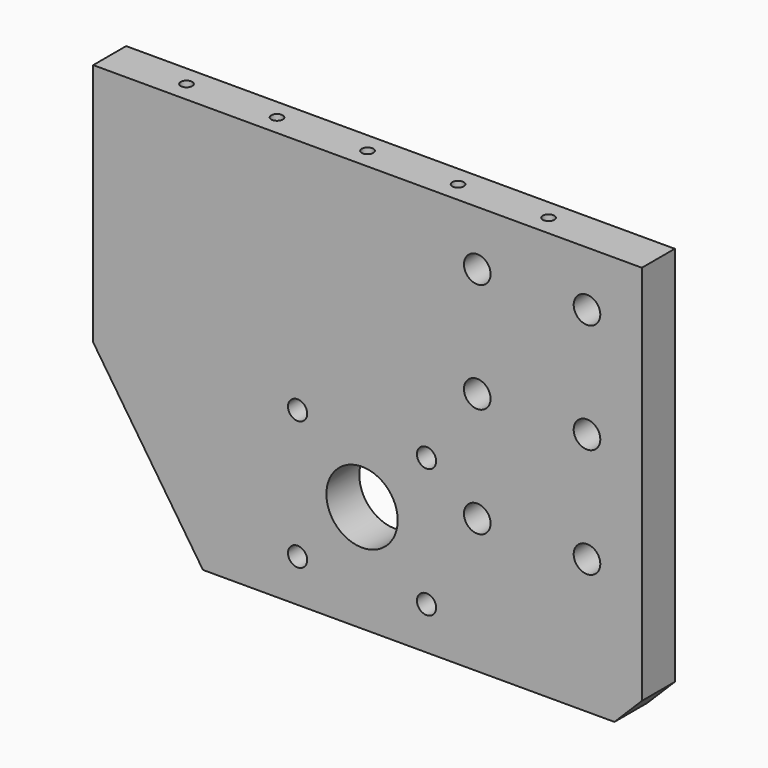
from build123d import *

# Parameters (mm, degrees)
F0_R      = 13
F1_DEPTH  = 15
F3_D      = 9.7
F5_D      = 7
F6_DEPTH  = 4
F7_DEPTH  = 55
F9_DEPTH  = 25
F11_D     = 4.2
F11_DEPTH = 15
F11_TIP   = 1.2618073


with BuildPart() as f1:
    # F0 (on Front) → F1 (new body)
    with BuildSketch(Plane.XZ):
        Polygon((73.4297142857, -49.4285714286), (73.4297142857, 89.5714285714), (-48.5702857143, 89.5714285714), (-67.5702857143, 89.5714285714), (-67.5702857143, 29.5714285714), (-67.5702857143, -59.4285714286), (63.4297142857, -59.4285714286), align=None)
        with Locations((-28.5702857143, -20.4285714286)):
            Circle(F0_R, mode=Mode.SUBTRACT)
    extrude(amount=F1_DEPTH)

    # F3 (through all)
    with Locations(Plane(origin=(0, 0, 0), x_dir=(-1, 0, 0), z_dir=(0, 1, 0))):
        with Locations((-53.4297142857, -10.4285714286), (-53.4297142857, 29.5714285714), (-53.4297142857, 69.5714285714), (-13.4297142857, 69.5714285714), (-13.4297142857, 29.5714285714), (-13.4297142857, -10.4285714286)):
            Hole(F3_D / 2)

    # F5 (through all)
    with Locations(Plane.XZ.offset(15)):
        with Locations((-52.0702857143, 3.0714285714), (-52.0702857143, -43.9285714286), (-5.0702857143, -43.9285714286), (-5.0702857143, 3.0714285714)):
            Hole(F5_D / 2)

    # F6 (add): a face of the model
    f6_faces = [f1.faces().sort_by_distance(p)[0] for p in [
        (-67.5702857143, -7.5, 15.0714285714),
    ]]
    extrude(f6_faces, amount=F6_DEPTH)

    # F7 (add): a face of the model
    f7_faces = [f1.faces().sort_by_distance(p)[0] for p in [
        (-71.5702857143, -7.5, 15.0714285714),
    ]]
    extrude(f7_faces, amount=F7_DEPTH)

    # F8 (on face) → F9 (cut)
    with BuildSketch(Plane(origin=(0, 0, 0), x_dir=(-1, 0, 0), z_dir=(0, 1, 0))):
        Polygon((126.5702857143, -59.4285714286), (126.5702857143, 0.5714285714), (86.5702857143, -59.4285714286), align=None)
    extrude(amount=-F9_DEPTH, mode=Mode.SUBTRACT)

    # F11
    with Locations(Plane.XY.offset(89.5714285714)):
        with Locations((-98.5702857143, -7.5), (-65.5702857143, -7.5), (-32.5702857143, -7.5), (0.4297142857, -7.5), (33.4297142857, -7.5)):
            Hole(F11_D / 2, depth=F11_DEPTH)
            with Locations((0, 0, -(F11_DEPTH + F11_TIP / 2))):  # 118° drill point
                Cone(0, F11_D / 2, F11_TIP, mode=Mode.SUBTRACT)


solid = f1.part
